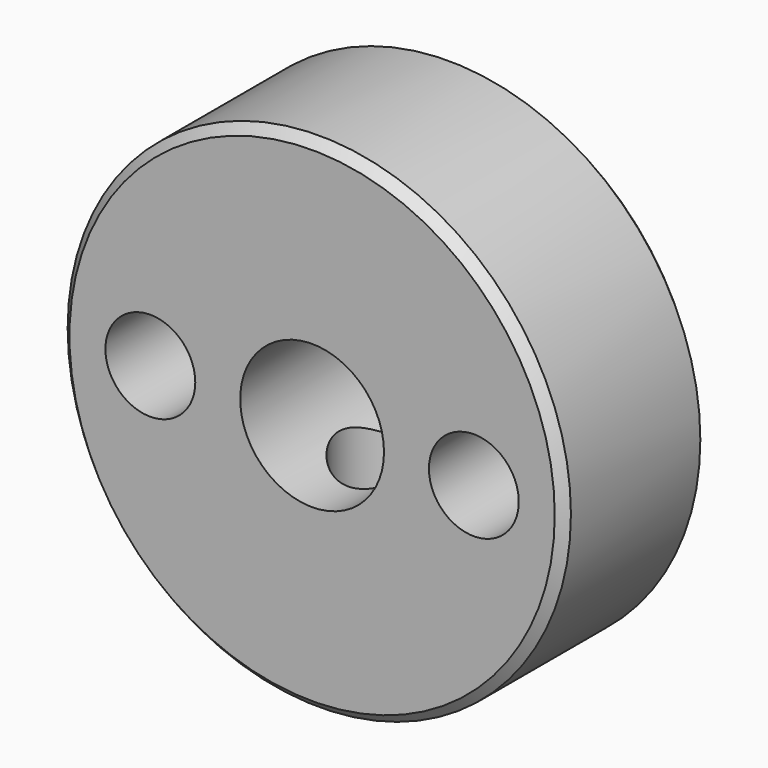
from build123d import *

# Parameters (mm, degrees)
F0_R     = 2.5
F0_R_2   = 14
F1_DEPTH = 10
F2_SIZE  = 0.5
F3_R     = 2.5
F4_DEPTH = 25


with BuildPart() as f1:
    # F0 (on Front) → F1 (new body)
    with BuildSketch(Plane.XZ):
        with Locations((-9, 0)):
            Circle(F0_R)
        with BuildLine():
            ThreePointArc((11.5, 0), (9, 2.5), (6.5, 0))
            ThreePointArc((6.5, 0), (9, -2.5), (11.5, 0))
        make_face()
        Circle(F0_R_2)
        with Locations((-9, 0)):
            Circle(F0_R, mode=Mode.SUBTRACT)
        with BuildLine():
            ThreePointArc((-4, 0), (0, 4), (4, 0))
            ThreePointArc((4, 0), (0, -4), (-4, 0))
        make_face(mode=Mode.SUBTRACT)
        with BuildLine():
            ThreePointArc((11.5, 0), (9, -2.5), (6.5, 0))
            ThreePointArc((6.5, 0), (9, 2.5), (11.5, 0))
        make_face(mode=Mode.SUBTRACT)
    extrude(amount=F1_DEPTH)

    # F2
    f2_edges = [f1.edges().sort_by_distance(p)[0] for p in [
        (-14, -10, 0),
        (-14, 0, 0),
    ]]
    chamfer(f2_edges, length=F2_SIZE)

    # F3 (on Top) → F4 (cut)
    with BuildSketch(Plane.XY):
        with Locations((0, -5)):
            Circle(F3_R)
    extrude(amount=-F4_DEPTH, mode=Mode.SUBTRACT)


solid = f1.part
